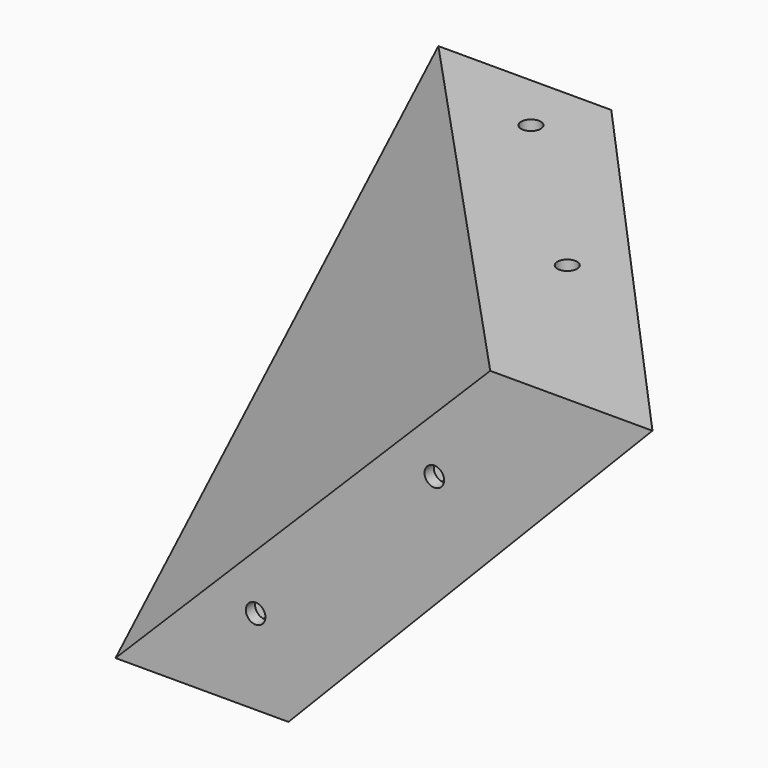
from build123d import *

# Parameters (mm, degrees)
F1_DEPTH  = 5
F4_DEPTH  = 5
F7_DEPTH  = 5.42
F11_DEPTH = 2
F14_DEPTH = 2
F8_W      = 30
F8_H      = 95.5248658727
F15_DEPTH = 2
F17_DEPTH = 102.5
F18_DEPTH = 2
F19_DEPTH = 239
F22_DEPTH = 2
F25_DEPTH = 25
F27_W     = 101.7516627908
F27_H     = 74.3317976594
F28_DEPTH = 25
F30_W     = 3.562554135
F30_H     = 2.8552263975
F31_DEPTH = 25
F33_W     = 167.9849326611
F33_H     = 135.5820912868
F34_DEPTH = 25
F35_DEPTH = 25
F36_DEPTH = 5
F37_DEPTH = 5
F6_W      = 160
F6_H      = 95.5248658727
F38_DEPTH = 5
F39_R     = 1.7
F40_DEPTH = 9.9
F41_DEPTH = 20
F42_R     = 1.7
F43_DEPTH = 25
F44_R     = 5.3
F45_DEPTH = 5
F46_R     = 5.3
F47_DEPTH = 5
F48_DEPTH = 154
F49_DEPTH = 5
F50_DEPTH = 5


with BuildPart() as f1:
    # F0 (on Front) → F1 (new body)
    with BuildSketch(Plane.XZ):
        Polygon((-300, 20), (-300, 0), (0, 0), (0, 175), (-30, 175), (-30, 95), (-70, 95), (-75, 90), (-75, 85), (-140, 20), align=None)
    extrude(amount=F1_DEPTH)

    # F3 (on offset) → F4 (join)
    with BuildSketch(Plane(origin=(0, 0, 85), x_dir=(1, 0, 0), z_dir=(0, 0, -1))):
        Polygon((0, -157.818160031), (0, 0), (-70, 0), (-140, -70), (-300, -70), (-300, -157.818160031), align=None)
    extrude(amount=-F4_DEPTH)



with BuildPart() as f7:
    # F0 (on Front) → F7 (new body)
    with BuildSketch(Plane.XZ):
        Polygon((-300, 20), (-300, 0), (0, 0), (0, 175), (-30, 175), (-30, 95), (-70, 95), (-75, 90), (-75, 85), (-140, 20), align=None)
    extrude(amount=F7_DEPTH)


with BuildPart() as f1_1:
    add(f1.part)

    add(f7.part)  # F11 merges F7
    # F10 (on 3pt) → F11 (join)
    with BuildSketch(Plane(origin=(-55.9001782531, -51.9073083779, 55.9001782531), x_dir=(-0.3881029321, 0.8359140076, 0.3881029321), z_dir=(0.5910804633, 0.5488604302, -0.5910804633))):
        Polygon((62.0964691388, -84.8528137424), (145.837140261, -38.8908729653), (62.0964691388, 7.0710678119), align=None)
    extrude(amount=F11_DEPTH)


with BuildPart() as f14:
    # F13 (on 3pt) → F14 (new body)
    with BuildSketch(Plane.XY.offset(85)):
        Polygon((-75, 0), (-70, 0), (-140, 70), align=None)
    extrude(amount=-F14_DEPTH)


with BuildPart() as f15:
    # F8 (on 3pt) → F15 (new body)
    with BuildSketch(Plane(origin=(0, -9.9726027397, 10.7397260274), x_dir=(1, 0, 0), z_dir=(0, 0.6804510994, -0.7327934916))):
        with Locations((-125, -61.3714549237)):
            Rectangle(F8_W, F8_H)
    extrude(amount=-F15_DEPTH)


with BuildPart() as f17_tool:
    # F17 (cut): a face of the model
    f17_faces = [f1_1.part.faces().sort_by_distance(p)[0] for p in [
        (-129.156432847, 97.5448991734, 85),
    ]]
    extrude(f17_faces, amount=-F17_DEPTH)


with BuildPart() as f1_2:
    add(f1_1.part)

    # F17: cut by f17_tool
    add(f17_tool.part, mode=Mode.SUBTRACT)


    add(f14.part)  # F18 merges F14


with BuildPart() as f15_1:
    add(f15.part)

    # F17: cut by f17_tool
    add(f17_tool.part, mode=Mode.SUBTRACT)


with BuildPart() as f1_3:
    add(f1_2.part)

    add(f15_1.part)  # F18 merges F15
    # F16 (on face) → F18 (join)
    with BuildSketch(Plane.XZ):
        Polygon((-45, 85), (-75, 85), (-140, 20), (-110, 20), align=None)
    extrude(amount=-F18_DEPTH)

    # F0 (on Front) → F19 (cut)
    with BuildSketch(Plane.XZ):
        Polygon((-300, 20), (-300, 0), (0, 0), (0, 175), (-30, 175), (-30, 95), (-70, 95), (-75, 90), (-75, 85), (-140, 20), align=None)
    extrude(amount=F19_DEPTH, mode=Mode.SUBTRACT)

    # F21 (on 3pt) → F22 (join)
    with BuildSketch(Plane(origin=(0, 0, 85), x_dir=(1, 0, 0), z_dir=(0, 0, -1))):
        Polygon((-110, -70), (-45, 0), (-75, 0), (-140, -70), align=None)
    extrude(amount=F22_DEPTH)

    # F24 (on 3pt) → F25 (cut)
    with BuildSketch(Plane(origin=(0, -9.9726027397, 10.7397260274), x_dir=(1, 0, 0), z_dir=(0, -0.6804510994, 0.7327934916))):
        Polygon((-152.044788003, 115.9684211016), (-152.044788003, 9.7816493362), (-52.4809733033, 8.1501184031), (-52.4809733033, 115.9684211016), align=None)
    extrude(amount=-F25_DEPTH, mode=Mode.SUBTRACT)

    # F27 (on 3pt) → F28 (cut)
    with BuildSketch(Plane(origin=(-55.9001782531, -51.9073083779, 55.9001782531), x_dir=(-0.3881029321, 0.8359140076, 0.3881029321), z_dir=(0.5910804633, 0.5488604302, -0.5910804633))):
        with Locations((109.982162714, -56.3623122871)):
            Rectangle(F27_W, F27_H)
    extrude(amount=-F28_DEPTH, mode=Mode.SUBTRACT)

    # F30 (on 3pt) → F31 (cut)
    with BuildSketch(Plane(origin=(-52.6598984772, 0, 3.7614213198), x_dir=(0, 1, 0), z_dir=(0.9974586998, 0, -0.07124705))):
        with Locations((1.0092993034, 80.4627463222)):
            Rectangle(F30_W, F30_H)
    extrude(amount=F31_DEPTH, mode=Mode.SUBTRACT)

    # F33 (on 3pt) → F34 (cut)
    with BuildSketch(Plane(origin=(-46.9394598514, -42.3413086823, 45.598332427), x_dir=(0.3896444557, -0.8395868317, -0.378511757), z_dir=(-0.6022183228, -0.5432255075, 0.585012085))):
        with Locations((-70.4560130835, -7.8508025035)):
            Rectangle(F33_W, F33_H)
    extrude(amount=-F34_DEPTH, mode=Mode.SUBTRACT)

    # F35 (cut): a face of the model
    f35_faces = [f1_3.faces().sort_by_distance(p)[0] for p in [
        (-138.1104971586, 68.1104971586, 85.064982902),
    ]]
    extrude(f35_faces, amount=-F35_DEPTH, mode=Mode.SUBTRACT)

    # F3 (on offset) → F36 (join)
    with BuildSketch(Plane(origin=(0, 0, 85), x_dir=(1, 0, 0), z_dir=(0, 0, -1))):
        Polygon((0, -157.818160031), (0, 0), (-70, 0), (-140, -70), (-300, -70), (-300, -157.818160031), align=None)
    extrude(amount=-F36_DEPTH)

    # F0 (on Front) → F37 (join)
    with BuildSketch(Plane.XZ):
        Polygon((-300, 20), (-300, 0), (0, 0), (0, 175), (-30, 175), (-30, 95), (-70, 95), (-75, 90), (-75, 85), (-140, 20), align=None)
    extrude(amount=F37_DEPTH)

    # F39 (on face) → F40 (cut)
    with BuildSketch(Plane.XZ.offset(5)):
        with Locations((-115.7, 34.7)):
            Circle(F39_R)
        with Locations((-84.7, 65.7)):
            Circle(F39_R)
    extrude(amount=-F40_DEPTH, mode=Mode.SUBTRACT)

    # F41 (cut): a face of the model
    f41_faces = [f1_3.faces().sort_by_distance(p)[0] for p in [
        (-110, 34.1938617489, 53.1056998046),
    ]]
    extrude(f41_faces, amount=-F41_DEPTH, mode=Mode.SUBTRACT)

    # F42 (on face) → F43 (cut)
    with BuildSketch(Plane.XY.offset(90)):
        with Locations((-86.2, 30.7)):
            Circle(F42_R)
        with Locations((-115.7, 59.7)):
            Circle(F42_R)
    extrude(amount=-F43_DEPTH, mode=Mode.SUBTRACT)

    # F44 (on face) → F45 (join)
    with BuildSketch(Plane(origin=(0, 2, 0), x_dir=(-1, 0, 0), z_dir=(0, 1, 0))):
        with Locations((115.7, 34.7)):
            Circle(F44_R)
        Polygon((118.9331615075, 34.7), (117.3165807537, 31.9), (114.0834192463, 31.9), (112.4668384925, 34.7), (114.0834192463, 37.5), (117.3165807537, 37.5), align=None, mode=Mode.SUBTRACT)
        with Locations((84.7, 65.7)):
            Circle(F44_R)
        Polygon((87.9331615075, 65.7), (86.3165807537, 62.9), (83.0834192463, 62.9), (81.4668384925, 65.7), (83.0834192463, 68.5), (86.3165807537, 68.5), align=None, mode=Mode.SUBTRACT)
    extrude(amount=F45_DEPTH)

    # F46 (on face) → F47 (join)
    with BuildSketch(Plane(origin=(0, 0, 83), x_dir=(1, 0, 0), z_dir=(0, 0, -1))):
        with Locations((-115.7, -59.7)):
            Circle(F46_R)
        Polygon((-112.4668384925, -59.7), (-114.0834192463, -62.5), (-117.3165807537, -62.5), (-118.9331615075, -59.7), (-117.3165807537, -56.9), (-114.0834192463, -56.9), align=None, mode=Mode.SUBTRACT)
        with Locations((-86.2, -30.7)):
            Circle(F46_R)
        Polygon((-82.9668384925, -30.7), (-84.5834192463, -33.5), (-87.8165807537, -33.5), (-89.4331615075, -30.7), (-87.8165807537, -27.9), (-84.5834192463, -27.9), align=None, mode=Mode.SUBTRACT)
    extrude(amount=F47_DEPTH)

    # F39 (on face) → F49 (cut)
    with BuildSketch(Plane.XZ.offset(5)):
        Polygon((-140, 20), (-300, 20), (-300, 0), (0, 0), (0, 175), (-30, 175), (-30, 95), (-70, 95), (-75, 90), (-75, 85), align=None)
        with Locations((-115.7, 34.7)):
            Circle(F39_R, mode=Mode.SUBTRACT)
        with Locations((-84.7, 65.7)):
            Circle(F39_R, mode=Mode.SUBTRACT)
    extrude(amount=-F49_DEPTH, mode=Mode.SUBTRACT)

    # F42 (on face) → F50 (cut)
    with BuildSketch(Plane.XY.offset(90)):
        Polygon((0, 0), (0, 157.818160031), (-300, 157.818160031), (-300, 70), (-140, 70), (-70, 0), align=None)
        with Locations((-86.2, 30.7)):
            Circle(F42_R, mode=Mode.SUBTRACT)
        with Locations((-115.7, 59.7)):
            Circle(F42_R, mode=Mode.SUBTRACT)
    extrude(amount=-F50_DEPTH, mode=Mode.SUBTRACT)


with BuildPart() as f38:
    # F6 (on 3pt) → F38 (new body)
    with BuildSketch(Plane(origin=(0, -9.9726027397, 10.7397260274), x_dir=(1, 0, 0), z_dir=(0, 0.6804510994, -0.7327934916))):
        with Locations((-220, -61.3714549237)):
            Rectangle(F6_W, F6_H)
    extrude(amount=F38_DEPTH)

    # F6 (on 3pt) → F48 (cut)
    with BuildSketch(Plane(origin=(0, -9.9726027397, 10.7397260274), x_dir=(1, 0, 0), z_dir=(0, 0.6804510994, -0.7327934916))):
        with Locations((-220, -61.3714549237)):
            Rectangle(F6_W, F6_H)
    extrude(amount=F48_DEPTH, mode=Mode.SUBTRACT)


solid = f1_3.part
